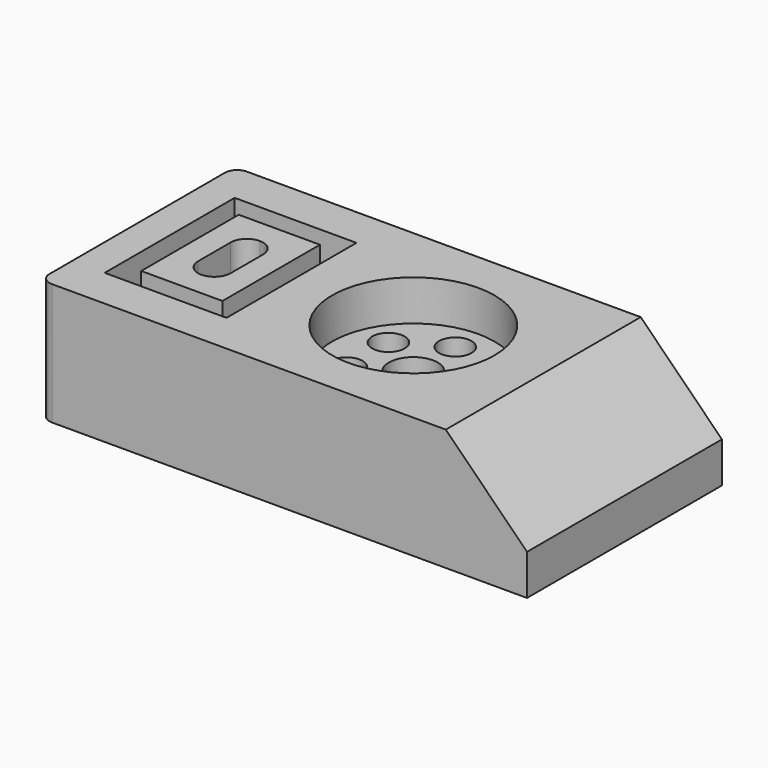
from build123d import *

# Parameters (mm, degrees)
F0_W      = 120
F0_H      = 50
F1_DEPTH  = 60
F2_W      = 30
F2_H      = 40
F2_W_2    = 20
F2_H_2    = 30
F3_DEPTH  = 25
F5_DEPTH  = 15
F7_SIZE   = 20
F8_R      = 20
F9_DEPTH  = 10
F10_R     = 4
F11_DEPTH = 20
F6_W      = 120
F6_H      = 60
F12_DEPTH = 20
F13_R     = 6
F14_DEPTH = 20
F15_R     = 3
F16_R     = 3


with BuildPart() as f1:
    # F0 (on Front) → F1 (new body)
    with BuildSketch(Plane.XZ):
        with Locations((-60, 25)):
            Rectangle(F0_W, F0_H)
    extrude(amount=F1_DEPTH)

    # F2 (on face) → F3 (cut)
    with BuildSketch(Plane.XY.offset(50)):
        with Locations((-97, -30)):
            Rectangle(F2_W, F2_H)
        with Locations((-97, -30)):
            Rectangle(F2_W_2, F2_H_2, mode=Mode.SUBTRACT)
    extrude(amount=-F3_DEPTH, mode=Mode.SUBTRACT)

    # F4 (on face) → F5 (cut)
    with BuildSketch(Plane.XY.offset(50)):
        with BuildLine():
            ThreePointArc((-97, -21), (-99.828427, -22.171573), (-101, -25))
            Line((-101, -25), (-101, -35))
            ThreePointArc((-101, -35), (-99.828427, -37.828427), (-97, -39))
            ThreePointArc((-97, -39), (-94.171573, -37.828427), (-93, -35))
            Line((-93, -35), (-93, -25))
            ThreePointArc((-93, -25), (-94.171573, -22.171573), (-97, -21))
        make_face()
    extrude(amount=-F5_DEPTH, mode=Mode.SUBTRACT)

    # F7
    f7_edges = [f1.edges().sort_by_distance(p)[0] for p in [
        (0, -30, 50),
    ]]
    chamfer(f7_edges, length=F7_SIZE)

    # F8 (on face) → F9 (cut)
    with BuildSketch(Plane.XY.offset(50)):
        with Locations((-52, -30)):
            Circle(F8_R)
    extrude(amount=-F9_DEPTH, mode=Mode.SUBTRACT)

    # F10 (on face) → F11 (cut)
    with BuildSketch(Plane.XY.offset(40)):
        with Locations((-52.059621, -17)):
            Circle(F10_R)
        with Locations((-63.288141, -23.551633)):
            Circle(F10_R)
        with Locations((-63.22852, -36.551633)):
            Circle(F10_R)
        with Locations((-51.940379, -43)):
            Circle(F10_R)
        with Locations((-40.711859, -36.448367)):
            Circle(F10_R)
        with Locations((-40.77148, -23.448367)):
            Circle(F10_R)
    extrude(amount=-F11_DEPTH, mode=Mode.SUBTRACT)

    # F6 (on face) → F12 (cut)
    with BuildSketch(Plane(origin=(0, 0, 0), x_dir=(1, 0, 0), z_dir=(0, 0, -1))):
        with Locations((-60, 30)):
            Rectangle(F6_W, F6_H)
    extrude(amount=-F12_DEPTH, mode=Mode.SUBTRACT)

    # F13 (on face) → F14 (cut)
    with BuildSketch(Plane.XY.offset(40)):
        with Locations((-52, -30)):
            Circle(F13_R)
    extrude(amount=-F14_DEPTH, mode=Mode.SUBTRACT)

    # F15
    f15_edges = [f1.edges().sort_by_distance(p)[0] for p in [
        (-120, -60, 35),
    ]]
    fillet(f15_edges, radius=F15_R)

    # F16
    f16_edges = [f1.edges().sort_by_distance(p)[0] for p in [
        (-120, 0, 35),
    ]]
    fillet(f16_edges, radius=F16_R)


solid = f1.part
